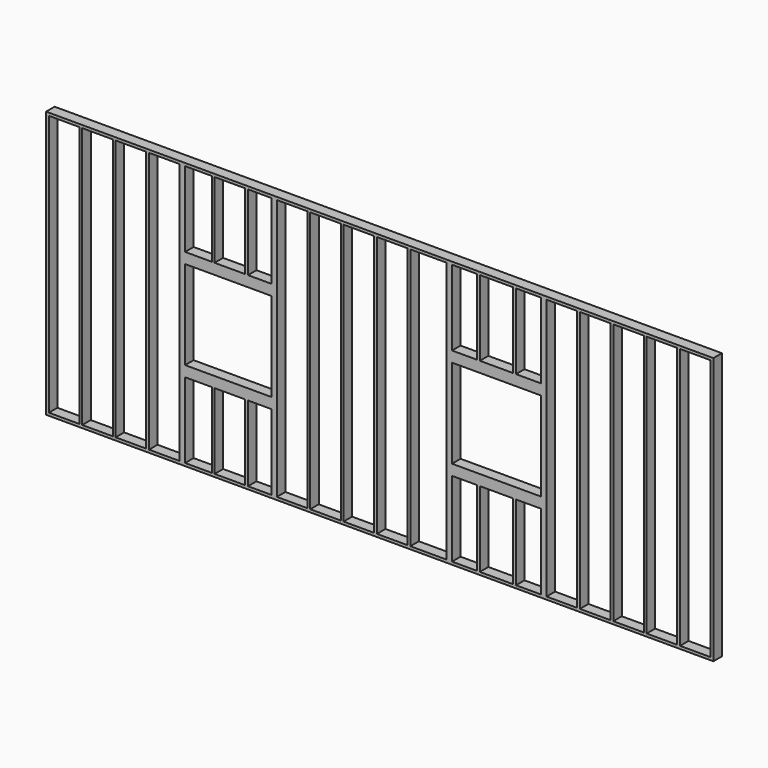
from build123d import *

# Parameters (mm, degrees)
F0_W     = 9144
F0_H     = 3657.6
F0_W_2   = 365.76
F0_H_2   = 1034.796
F0_W_3   = 419.1
F0_W_4   = 320.04
F0_W_5   = 342.9
F0_W_6   = 457.2
F0_H_3   = 3581.4
F0_W_7   = 495.3
F1_DEPTH = 146.304


with BuildPart() as f1:
    # F0 (on Front) → F1 (new body)
    with BuildSketch(Plane.XZ):
        with Locations((4572, 1828.8)):
            Rectangle(F0_W, F0_H)
        with Locations((2087.88, 555.498)):
            Rectangle(F0_W_2, F0_H_2, mode=Mode.SUBTRACT)
        with Locations((2518.41, 555.498)):
            Rectangle(F0_W_3, F0_H_2, mode=Mode.SUBTRACT)
        with Locations((2926.08, 555.498)):
            Rectangle(F0_W_4, F0_H_2, mode=Mode.SUBTRACT)
        with Locations((5734.05, 555.498)):
            Rectangle(F0_W_5, F0_H_2, mode=Mode.SUBTRACT)
        with Locations((6172.2, 555.498)):
            Rectangle(F0_W_6, F0_H_2, mode=Mode.SUBTRACT)
        with Locations((6610.35, 555.498)):
            Rectangle(F0_W_5, F0_H_2, mode=Mode.SUBTRACT)
        with Locations((247.65, 1828.8)):
            Rectangle(F0_W_3, F0_H_3, mode=Mode.SUBTRACT)
        with Locations((704.85, 1828.8)):
            Rectangle(F0_W_3, F0_H_3, mode=Mode.SUBTRACT)
        with Locations((1162.05, 1828.8)):
            Rectangle(F0_W_3, F0_H_3, mode=Mode.SUBTRACT)
        with Locations((1619.25, 1828.8)):
            Rectangle(F0_W_3, F0_H_3, mode=Mode.SUBTRACT)
        Polygon((1905, 1219.2), (1905, 2438.4), (2270.76, 2438.4), (2727.96, 2438.4), (2766.06, 2438.4), (3086.1, 2438.4), (3086.1, 1219.2), (2766.06, 1219.2), (2727.96, 1219.2), (2308.86, 1219.2), align=None, mode=Mode.SUBTRACT)
        with Locations((3371.85, 1828.8)):
            Rectangle(F0_W_3, F0_H_3, mode=Mode.SUBTRACT)
        with Locations((3829.05, 1828.8)):
            Rectangle(F0_W_3, F0_H_3, mode=Mode.SUBTRACT)
        with Locations((4286.25, 1828.8)):
            Rectangle(F0_W_3, F0_H_3, mode=Mode.SUBTRACT)
        with Locations((2087.88, 3102.102)):
            Rectangle(F0_W_2, F0_H_2, mode=Mode.SUBTRACT)
        with Locations((2518.41, 3102.102)):
            Rectangle(F0_W_3, F0_H_2, mode=Mode.SUBTRACT)
        with Locations((2926.08, 3102.102)):
            Rectangle(F0_W_4, F0_H_2, mode=Mode.SUBTRACT)
        with Locations((4743.45, 1828.8)):
            Rectangle(F0_W_3, F0_H_3, mode=Mode.SUBTRACT)
        with Locations((5238.75, 1828.8)):
            Rectangle(F0_W_7, F0_H_3, mode=Mode.SUBTRACT)
        Polygon((5562.6, 2438.4), (5852.16, 2438.4), (5890.26, 2438.4), (6781.8, 2438.4), (6781.8, 1219.2), (5562.6, 1219.2), align=None, mode=Mode.SUBTRACT)
        with Locations((7067.55, 1828.8)):
            Rectangle(F0_W_3, F0_H_3, mode=Mode.SUBTRACT)
        with Locations((7524.75, 1828.8)):
            Rectangle(F0_W_3, F0_H_3, mode=Mode.SUBTRACT)
        with Locations((7981.95, 1828.8)):
            Rectangle(F0_W_3, F0_H_3, mode=Mode.SUBTRACT)
        with Locations((8439.15, 1828.8)):
            Rectangle(F0_W_3, F0_H_3, mode=Mode.SUBTRACT)
        with Locations((8896.35, 1828.8)):
            Rectangle(F0_W_3, F0_H_3, mode=Mode.SUBTRACT)
        with Locations((5734.05, 3102.102)):
            Rectangle(F0_W_5, F0_H_2, mode=Mode.SUBTRACT)
        with Locations((6172.2, 3102.102)):
            Rectangle(F0_W_6, F0_H_2, mode=Mode.SUBTRACT)
        with Locations((6610.35, 3102.102)):
            Rectangle(F0_W_5, F0_H_2, mode=Mode.SUBTRACT)
    extrude(amount=F1_DEPTH)


solid = f1.part
